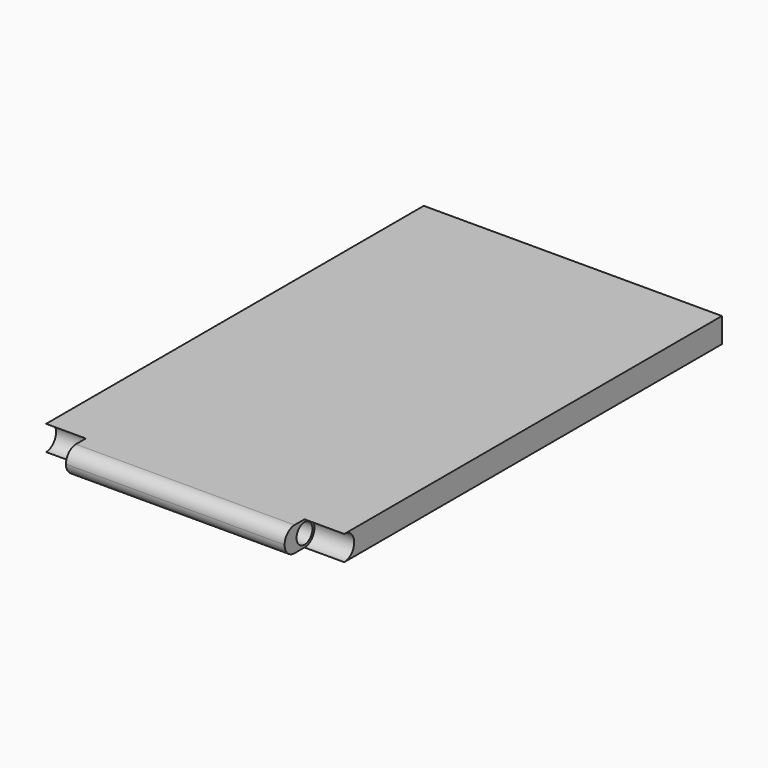
from build123d import *

# Parameters (mm, degrees)
F0_W      = 76.2
F0_H      = 127
F1_DEPTH  = 6.35
F2_W      = 10.16
F2_H      = 6.35
F3_DEPTH  = 25.4
F5_DEPTH  = 76.2
F7_DEPTH  = 38.1
F8_W      = 55.88
F8_H      = 9.9150016904
F9_DEPTH  = 6.35
F11_R     = 2.54
F12_DEPTH = 27.94


with BuildPart() as f1:
    # F0 (on Top) → F1 (new body)
    with BuildSketch(Plane.XY):
        Rectangle(F0_W, F0_H)
    extrude(amount=F1_DEPTH)

    # F2 (on face) → F3 (cut)
    with BuildSketch(Plane.XY.offset(6.35)):
        with Locations((-33.02, -60.325)):
            Rectangle(F2_W, F2_H)
        with Locations((33.02, -60.325)):
            Rectangle(F2_W, F2_H)
    extrude(amount=-F3_DEPTH, mode=Mode.SUBTRACT)

    # F4 (on face) → F5 (cut)
    with BuildSketch(Plane(origin=(-27.94, 0, 0), x_dir=(0, -1, 0), z_dir=(-1, 0, 0))):
        with BuildLine():
            ThreePointArc((60.325, 6.35), (62.5700640303, 5.4200640303), (63.5, 3.175))
            Line((63.5, 3.175), (63.5, 6.35))
            Line((63.5, 6.35), (60.325, 6.35))
        make_face()
        with BuildLine():
            Line((63.5, 0), (63.5, 3.175))
            ThreePointArc((63.5, 3.175), (62.5700640303, 0.9299359697), (60.325, 0))
            Line((60.325, 0), (63.5, 0))
        make_face()
    extrude(amount=-F5_DEPTH, mode=Mode.SUBTRACT)

    # F6 (on Right) → F7 (cut, symmetric)
    with BuildSketch(Plane.YZ):
        with BuildLine():
            Line((-57.15, 6.35), (-57.15, 0))
            ThreePointArc((-57.15, 0), (-53.975, 3.175), (-57.15, 6.35))
        make_face()
    extrude(amount=F7_DEPTH, both=True, mode=Mode.SUBTRACT)

    # F8 (on Top) → F9 (join)
    with BuildSketch(Plane.XY):
        with Locations((0, -52.1924991548)):
            Rectangle(F8_W, F8_H)
    extrude(amount=F9_DEPTH)

    # F11 (on Right) → F12 (cut, symmetric)
    with BuildSketch(Plane.YZ):
        with Locations((-57.15, 3.175)):
            Circle(F11_R)
    extrude(amount=F12_DEPTH, both=True, mode=Mode.SUBTRACT)


solid = f1.part
